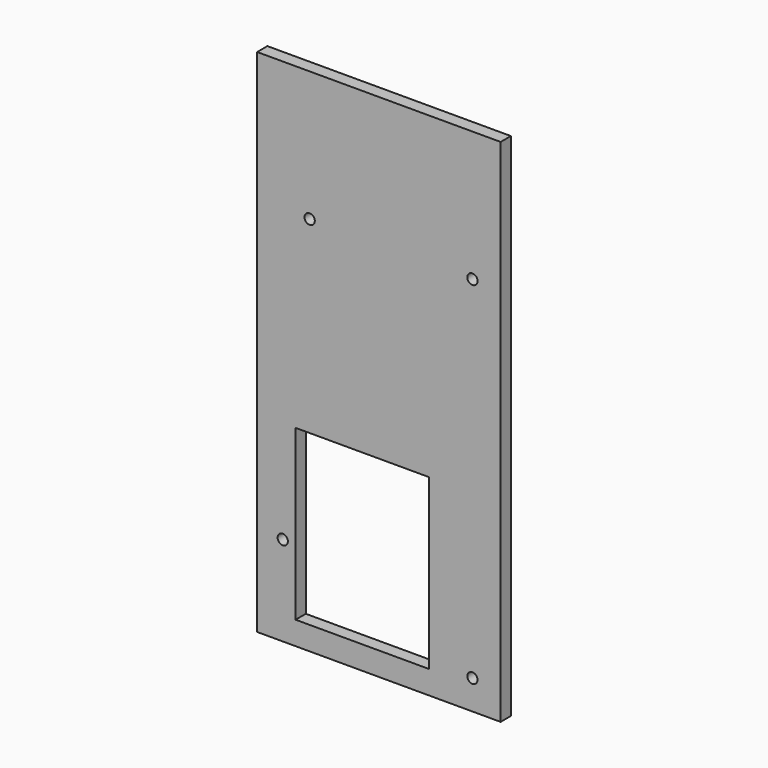
from build123d import *

# Parameters (mm, degrees)
F0_W     = 95
F0_H     = 199.22458
F0_R     = 2
F0_W_2   = 52
F0_H_2   = 65.903932
F1_DEPTH = 5


with BuildPart() as f1:
    # F0 (on Front) → F1 (new body)
    with BuildSketch(Plane.XZ):
        with Locations((42.5, 94.61229)):
            Rectangle(F0_W, F0_H)
        with Locations((5, 30)):
            Circle(F0_R, mode=Mode.SUBTRACT)
        with Locations((36, 37.048034)):
            Rectangle(F0_W_2, F0_H_2, mode=Mode.SUBTRACT)
        with Locations((79, 6.5)):
            Circle(F0_R, mode=Mode.SUBTRACT)
        with Locations((15.5, 143.5)):
            Circle(F0_R, mode=Mode.SUBTRACT)
        with Locations((79, 143.5)):
            Circle(F0_R, mode=Mode.SUBTRACT)
    extrude(amount=F1_DEPTH)


solid = f1.part
